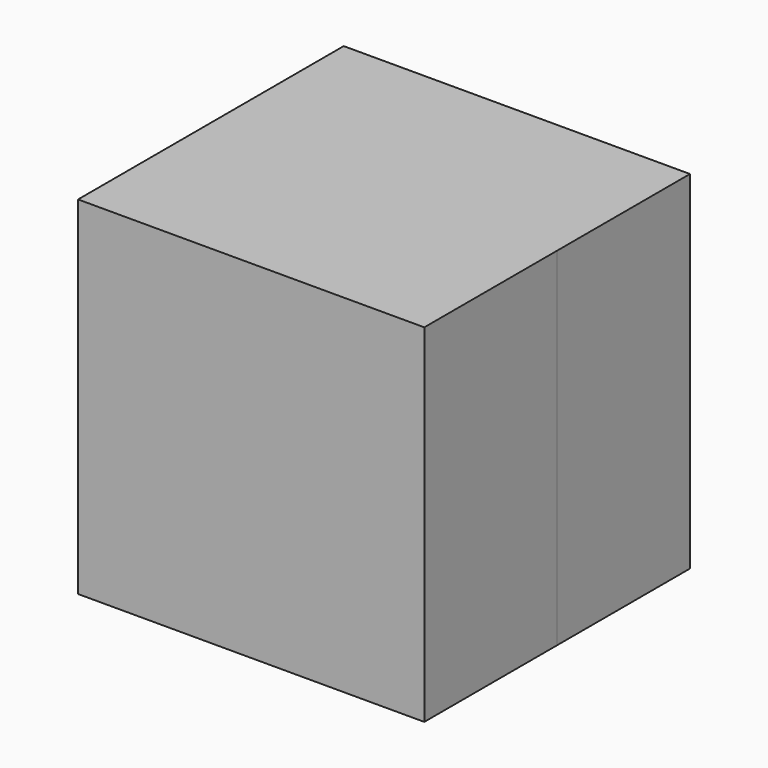
from build123d import *

# Parameters (mm, degrees)
F0_W      = 11.530376
F0_H      = 19.135508
F1_DEPTH  = 25
F2_W      = 150.140189
F2_H      = 150.630846
F3_DEPTH  = 72
F3_FACE_W = 150.140188
F3_FACE_H = 150.630846
F4_DEPTH  = 72


with BuildPart() as f1:
    # F0 (on Front) → F1 (new body)
    with BuildSketch(Plane.XZ):
        with Locations((-0.122664, -65.257011)):
            Rectangle(F0_W, F0_H)
    extrude(amount=F1_DEPTH)

    # F2 (on Front) → F3 (join)
    with BuildSketch(Plane.XZ):
        with Locations((-4e-06, 0)):
            Rectangle(F2_W, F2_H)
    extrude(amount=F3_DEPTH)

    # F3_face (on face) → F4 (join)
    with BuildSketch(Plane(origin=(-4e-06, 0, 0), x_dir=(1, 0, 0), z_dir=(0, 1, 0))):
        Rectangle(F3_FACE_W, F3_FACE_H)
    extrude(amount=F4_DEPTH)


solid = f1.part
